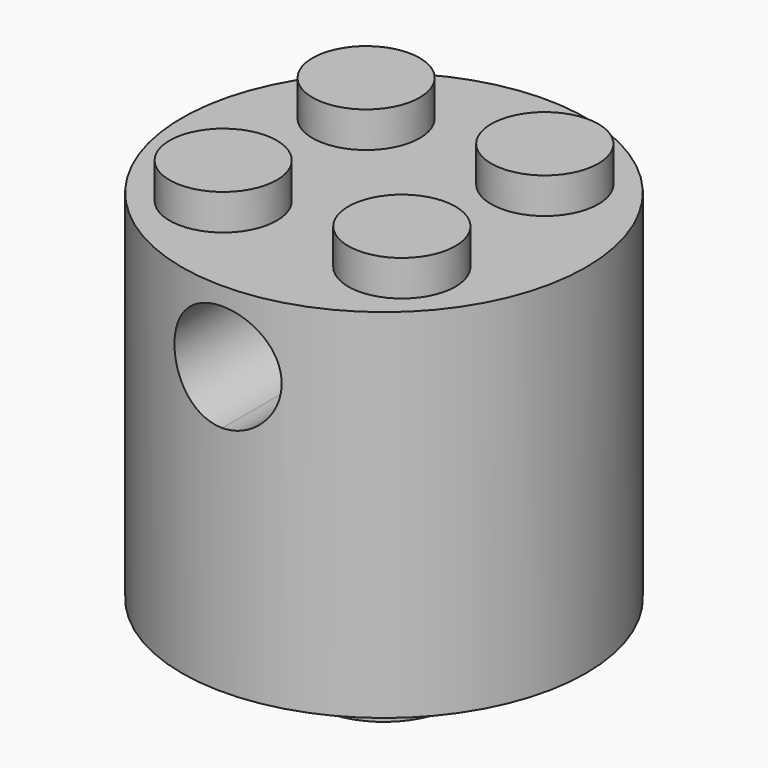
from build123d import *

# Parameters (mm, degrees)
F0_R     = 8.980256
F1_DEPTH = 15.875
F2_R     = 3.175
F2_R_2   = 2.38125
F3_DEPTH = 3.175
F4_R     = 2.38125
F5_DEPTH = 1.5875
F7_DEPTH = 12.7


with BuildPart() as f1:
    # F0 (on Top) → F1 (new body)
    with BuildSketch(Plane.XY):
        Circle(F0_R)
    extrude(amount=F1_DEPTH)

    # F2 (on face) → F3 (join)
    with BuildSketch(Plane(origin=(0, 0, 0), x_dir=(1, 0, 0), z_dir=(0, 0, -1))):
        Circle(F2_R)
        Circle(F2_R_2, mode=Mode.SUBTRACT)
    extrude(amount=F3_DEPTH)

    # F4 (on face) → F5 (join)
    with BuildSketch(Plane.XY.offset(15.875)):
        with Locations((-3.96875, 3.96875)):
            Circle(F4_R)
        with Locations((3.96875, 3.96875)):
            Circle(F4_R)
        with Locations((3.96875, -3.96875)):
            Circle(F4_R)
        with Locations((-3.96875, -3.96875)):
            Circle(F4_R)
    extrude(amount=F5_DEPTH)

    # F6 (on Front) → F7 (cut, symmetric)
    with BuildSketch(Plane.XZ):
        with BuildLine():
            ThreePointArc((0, 10.31875), (1.683798, 11.016202), (2.38125, 12.7))
            ThreePointArc((2.38125, 12.7), (-1.683798, 14.383798), (0, 10.31875))
        make_face()
    extrude(amount=F7_DEPTH, both=True, mode=Mode.SUBTRACT)


solid = f1.part
